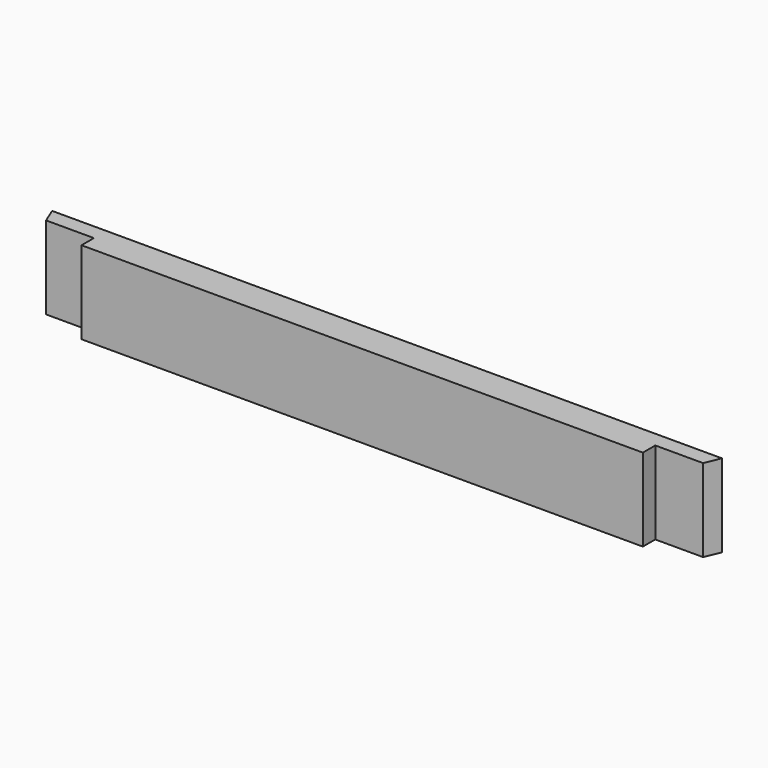
from build123d import *

# Parameters (mm, degrees)
F1_DEPTH = 25.4


with BuildPart() as f1:
    # F0 (on Top) → F1 (new body, symmetric)
    with BuildSketch(Plane.XY):
        Polygon((25.4, 0), (25.4, -9.525), (369.8875, -9.525), (369.8875, 0), (399.232884, 0), (403.178268, 9.525), (-7.890768, 9.525), (-3.945384, 0), align=None)
    extrude(amount=F1_DEPTH, both=True)


solid = f1.part
